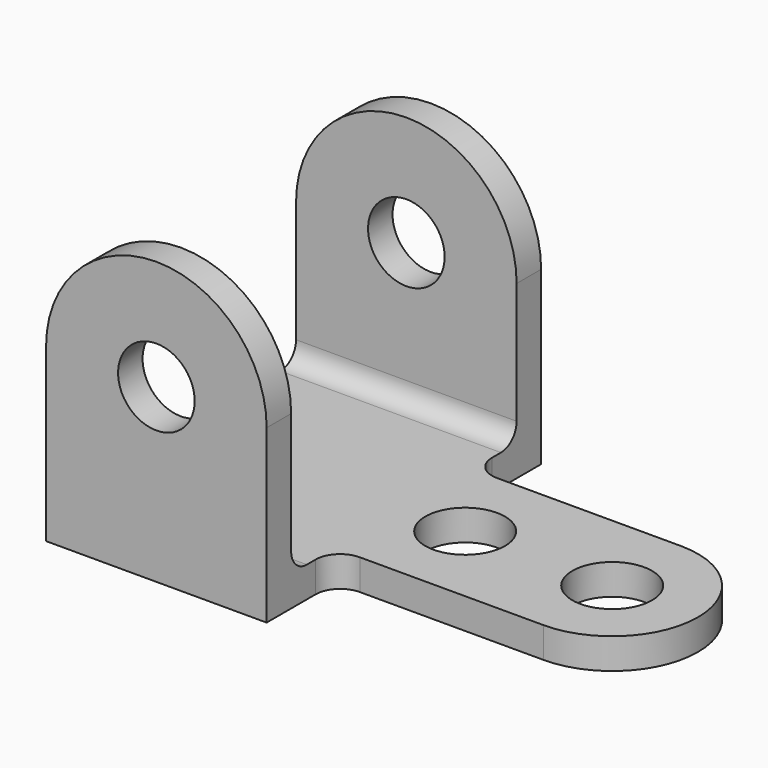
from build123d import *

# Parameters (mm, degrees)
F0_W     = 57.15
F0_H     = 7.9375
F0_R     = 10.3251
F1_DEPTH = 7.9375
F2_DEPTH = 44.45
F3_DEPTH = 44.45
F4_W     = 28.575
F4_H     = 7.9375
F6_W     = 28.575
F6_H     = 7.9375
F8_R     = 9.92251
F9_DEPTH = 88.901
F10_R    = 5.08


with BuildPart() as f1:
    # F0 (on Top) → F1 (new body)
    with BuildSketch(Plane.XY):
        with Locations((28.575, 3.96875)):
            Rectangle(F0_W, F0_H)
        with BuildLine():
            Line((0, 80.9625), (0, 7.9375))
            Line((0, 7.9375), (57.15, 7.9375))
            Line((57.15, 7.9375), (57.15, 15.875))
            ThreePointArc((57.15, 15.875), (59.009872, 20.365128), (63.5, 22.225))
            Line((63.5, 22.225), (111.125, 22.225))
            ThreePointArc((111.125, 22.225), (133.35, 44.45), (111.125, 66.675))
            Line((111.125, 66.675), (63.5, 66.675))
            ThreePointArc((63.5, 66.675), (59.009872, 68.534872), (57.15, 73.025))
            Line((57.15, 73.025), (57.15, 80.9625))
            Line((57.15, 80.9625), (0, 80.9625))
        make_face()
        with Locations((73.025, 44.45)):
            Circle(F0_R, mode=Mode.SUBTRACT)
        with Locations((111.125, 44.45)):
            Circle(F0_R, mode=Mode.SUBTRACT)
        with Locations((28.575, 84.93125)):
            Rectangle(F0_W, F0_H)
    extrude(amount=F1_DEPTH)

    # F0 (on Top) → F2 (join)
    with BuildSketch(Plane.XY):
        with Locations((28.575, 3.96875)):
            Rectangle(F0_W, F0_H)
    extrude(amount=F2_DEPTH)

    # F0 (on Top) → F3 (join)
    with BuildSketch(Plane.XY):
        with Locations((28.575, 84.93125)):
            Rectangle(F0_W, F0_H)
    extrude(amount=F3_DEPTH)

    # F4 (on face) → F5 (revolve)
    with BuildSketch(Plane.XY.offset(44.45)):
        with Locations((14.2875, 3.96875)):
            Rectangle(F4_W, F4_H)
    revolve(axis=Axis((28.575, 3.96875, 44.45), (0, 1, 0)))

    # F6 (on face) → F7 (revolve)
    with BuildSketch(Plane.XY.offset(44.45)):
        with Locations((14.2875, 84.93125)):
            Rectangle(F6_W, F6_H)
    revolve(axis=Axis((28.575, 84.93125, 44.45), (0, 1, 0)))

    # F8 (on face) → F9 (cut, through all)
    with BuildSketch(Plane.XZ):
        with Locations((28.575, 44.45)):
            Circle(F8_R)
    extrude(amount=-F9_DEPTH, mode=Mode.SUBTRACT)

    # F10
    f10_edges = [f1.edges().sort_by_distance(p)[0] for p in [
        (28.575, 80.9625, 7.9375),
        (28.575, 7.9375, 7.9375),
    ]]
    fillet(f10_edges, radius=F10_R)


solid = f1.part
